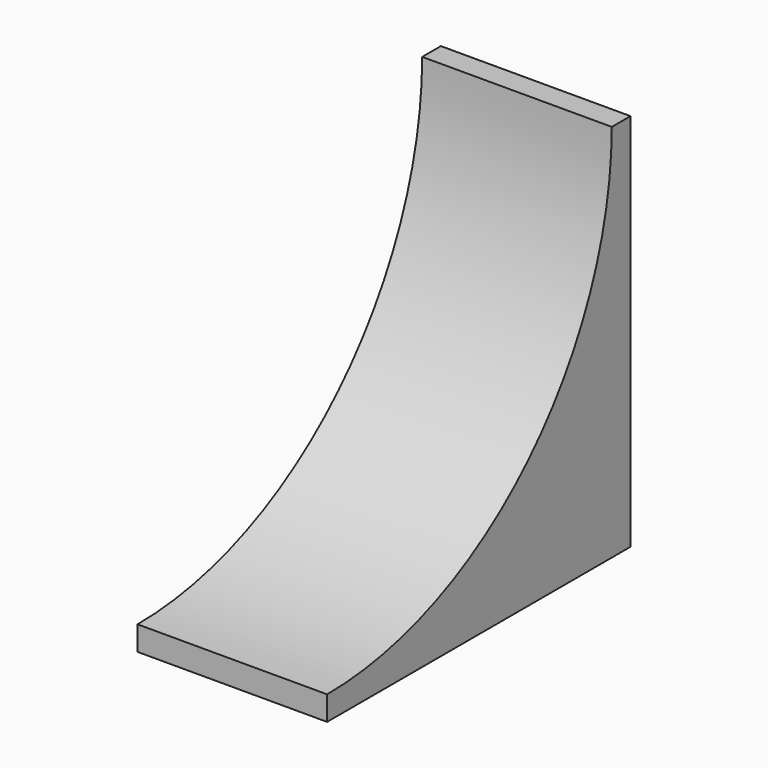
from build123d import *

# Parameters (mm, degrees)
F0_W     = 100
F0_H     = 100
F1_DEPTH = 50
F2_R     = 93.876824
F3_DEPTH = 75


with BuildPart() as f1:
    # F0 (on Right) → F1 (new body)
    with BuildSketch(Plane.YZ):
        with Locations((27.192001, 6.234261)):
            Rectangle(F0_W, F0_H)
    extrude(amount=F1_DEPTH)


with BuildPart() as f3:
    # F2 (on Right) → F3 (new body)
    with BuildSketch(Plane.YZ):
        with Locations((-22.840602, 56.513045)):
            Circle(F2_R)
    extrude(amount=F3_DEPTH)


with BuildPart() as f1_1:
    add(f1.part)

    # F4: cut F3
    add(f3.part, mode=Mode.SUBTRACT)


solid = f1_1.part
